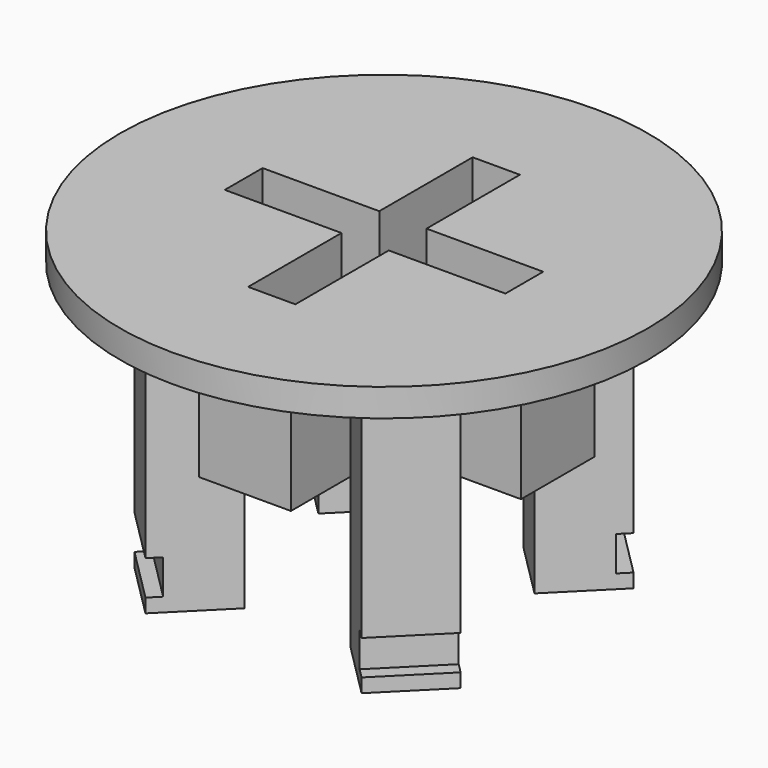
from build123d import *

# Parameters (mm, degrees)
SKETCH056_R     = 19
PAD035_DEPTH    = 2
PAD036_DEPTH    = 9.6
POCKET021_DEPTH = 8.4
PAD037_DEPTH    = 20
SKETCH060_W     = 1
SKETCH060_H     = 2.5
POCKET022_DEPTH = 29.6710576851
SKETCH061_W     = 1
SKETCH061_H     = 2.5
POCKET023_DEPTH = 29.6710576851
SKETCH062_W     = 1
SKETCH062_H     = 2.5
POCKET024_DEPTH = 29.6710576851


with BuildPart() as part:
    # Sketch056 (on Face61 of Binder011) → Pad035 (new body)
    with BuildSketch(Plane.XY.offset(16.2)):
        with Locations((-83.6396103068, 83.6396103068)):
            Circle(SKETCH056_R)
    extrude(amount=PAD035_DEPTH)

    # Sketch057 (on Face2 of Pad035) → Pad036 (join)
    with BuildSketch(Plane(origin=(0, 0, 16.2), x_dir=(1, 0, 0), z_dir=(0, 0, -1))):
        Polygon((-96.1396103068, -80.3396103068), (-96.1396103068, -86.9396103068), (-86.9396103068, -86.9396103068), (-86.9396103068, -96.1396103068), (-80.3396103068, -96.1396103068), (-80.3396103068, -86.9396103068), (-71.1396103068, -86.9396103068), (-71.1396103068, -80.3396103068), (-80.3396103068, -80.3396103068), (-80.3396103068, -71.1396103068), (-86.9396103068, -71.1396103068), (-86.9396103068, -80.3396103068), align=None)
    extrude(amount=PAD036_DEPTH)

    # Sketch058 (on Face3 of Pad036) → Pocket021 (cut)
    with BuildSketch(Plane.XY.offset(18.2)):
        Polygon((-85.3396103068, 93.7396103068), (-85.3396103068, 85.3396103068), (-93.7396103068, 85.3396103068), (-93.7396103068, 81.9396103068), (-85.3396103068, 81.9396103068), (-85.3396103068, 73.5396103068), (-81.9396103068, 73.5396103068), (-81.9396103068, 81.9396103068), (-73.5396103068, 81.9396103068), (-73.5396103068, 85.3396103068), (-81.9396103068, 85.3396103068), (-81.9396103068, 93.7396103068), align=None)
    extrude(amount=-POCKET021_DEPTH, mode=Mode.SUBTRACT)

    # Sketch059 (on Face2 of Pocket021) → Pad037 (join)
    with BuildSketch(Plane(origin=(0, 0, 16.2), x_dir=(1, 0, 0), z_dir=(0, 0, -1))):
        Polygon((-91.4177848998, -71.9016377391), (-87.4579869252, -75.8614357137), (-91.4177848998, -79.8212336884), (-95.3775828745, -75.8614357137), align=None)
        Polygon((-91.4177848998, -87.4579869252), (-95.3775828745, -91.4177848998), (-91.4177848998, -95.3775828745), (-87.4579869252, -91.4177848998), align=None)
        Polygon((-75.8614357137, -71.9016377391), (-79.8212336884, -75.8614357137), (-75.8614357137, -79.8212336884), (-71.9016377391, -75.8614357137), align=None)
        Polygon((-79.8212336884, -91.4177848998), (-75.8614357137, -87.4579869252), (-71.9016377391, -91.4177848998), (-75.8614357137, -95.3775828745), align=None)
    extrude(amount=PAD037_DEPTH)

    # Sketch060 (on Face13 of Pad037) → Pocket022 (cut, through all)
    with BuildSketch(Plane(origin=(1.9798989873, 1.9798989873, 0), x_dir=(-0.7071067812, 0.7071067812, 0), z_dir=(0.7071067812, 0.7071067812, 0))):
        with Locations((131.5842712475, -1.55)):
            Rectangle(SKETCH060_W, SKETCH060_H)
    extrude(amount=-POCKET022_DEPTH, mode=Mode.SUBTRACT)

    # Sketch061 (on Face9 of Pocket022) → Pocket023 (cut, through all)
    with BuildSketch(Plane(origin=(1.9798989873, 1.9798989873, 0), x_dir=(-0.7071067812, 0.7071067812, 0), z_dir=(0.7071067812, 0.7071067812, 0))):
        with Locations((104.9842712475, -1.55)):
            Rectangle(SKETCH061_W, SKETCH061_H)
    extrude(amount=-POCKET023_DEPTH, mode=Mode.SUBTRACT)

    # Sketch062 (on Face29 of Pocket023) → Pocket024 (cut, through all)
    with BuildSketch(Plane(origin=(-81.6597113195, 81.6597113195, 0), x_dir=(0.7071067812, 0.7071067812, 0), z_dir=(0.7071067812, -0.7071067812, 0))):
        with Locations((13.3, -1.55)):
            Rectangle(SKETCH062_W, SKETCH062_H)
        with Locations((-13.3, -1.55)):
            Rectangle(SKETCH062_W, SKETCH062_H)
    extrude(amount=-POCKET024_DEPTH, mode=Mode.SUBTRACT)


solid = part.part
